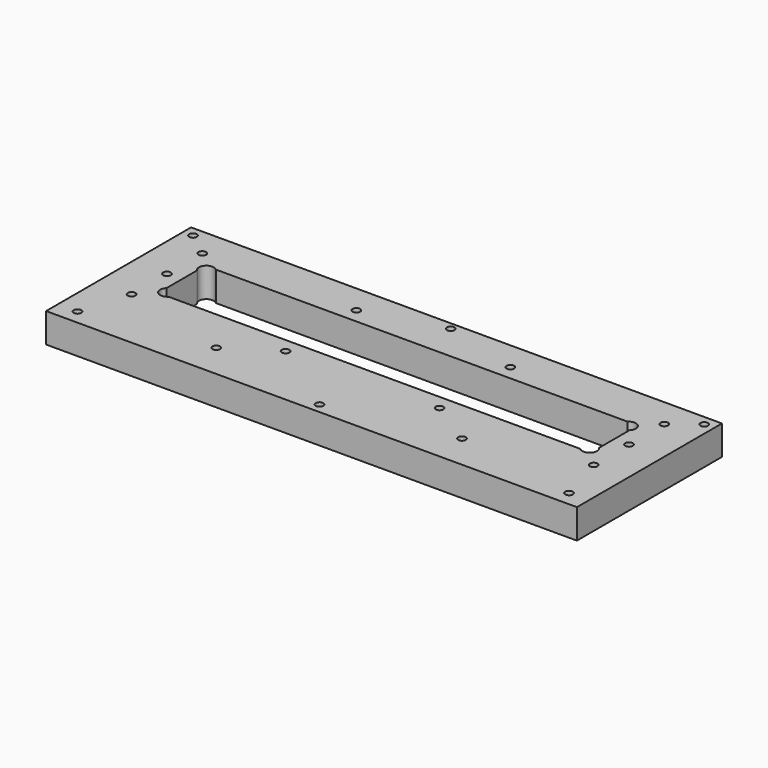
from build123d import *

# Parameters (mm, degrees)
F0_W     = 342.899989
F0_H     = 117.098217
F0_R     = 2.45745
F1_DEPTH = 19.05


with BuildPart() as f1:
    # F0 (on Top) → F1 (new body)
    with BuildSketch(Plane.XY):
        with Locations((199.415946, 93.865183)):
            Rectangle(F0_W, F0_H)
        with Locations((40.665952, 44.841074)):
            Circle(F0_R, mode=Mode.SUBTRACT)
        with Locations((120.040969, 57.604564)):
            Circle(F0_R, mode=Mode.SUBTRACT)
        with Locations((50.190963, 76.591074)):
            Circle(F0_R, mode=Mode.SUBTRACT)
        with Locations((149.674294, 76.591074)):
            Circle(F0_R, mode=Mode.SUBTRACT)
        with Locations((199.41597, 41.793069)):
            Circle(F0_R, mode=Mode.SUBTRACT)
        with Locations((278.79097, 57.604569)):
            Circle(F0_R, mode=Mode.SUBTRACT)
        with Locations((358.165952, 44.841074)):
            Circle(F0_R, mode=Mode.SUBTRACT)
        with Locations((249.157646, 76.591074)):
            Circle(F0_R, mode=Mode.SUBTRACT)
        with Locations((348.640962, 76.591074)):
            Circle(F0_R, mode=Mode.SUBTRACT)
        with Locations((50.190963, 105.166074)):
            Circle(F0_R, mode=Mode.SUBTRACT)
        with Locations((50.190963, 133.741074)):
            Circle(F0_R, mode=Mode.SUBTRACT)
        with Locations((34.315952, 146.064291)):
            Circle(F0_R, mode=Mode.SUBTRACT)
        with Locations((149.674294, 133.741081)):
            Circle(F0_R, mode=Mode.SUBTRACT)
        with BuildLine():
            ThreePointArc((66.451155, 86.116074), (59.715963, 86.116074), (59.715963, 92.851266))
            Line((59.715963, 92.851266), (59.715963, 117.480882))
            ThreePointArc((59.715963, 117.480882), (59.715963, 124.216074), (66.451155, 124.216074))
            Line((66.451155, 124.216074), (332.380771, 124.216074))
            ThreePointArc((332.380771, 124.216074), (339.115963, 124.216074), (339.115963, 117.480882))
            Line((339.115963, 117.480882), (339.115963, 92.851266))
            ThreePointArc((339.115963, 92.851266), (339.115963, 86.116074), (332.380771, 86.116074))
            Line((332.380771, 86.116074), (66.451155, 86.116074))
        make_face(mode=Mode.SUBTRACT)
        with Locations((348.640962, 105.166074)):
            Circle(F0_R, mode=Mode.SUBTRACT)
        with Locations((249.157646, 133.741081)):
            Circle(F0_R, mode=Mode.SUBTRACT)
        with Locations((199.415967, 147.734329)):
            Circle(F0_R, mode=Mode.SUBTRACT)
        with Locations((348.640962, 133.741074)):
            Circle(F0_R, mode=Mode.SUBTRACT)
        with Locations((364.515952, 146.064291)):
            Circle(F0_R, mode=Mode.SUBTRACT)
    extrude(amount=F1_DEPTH)


solid = f1.part
